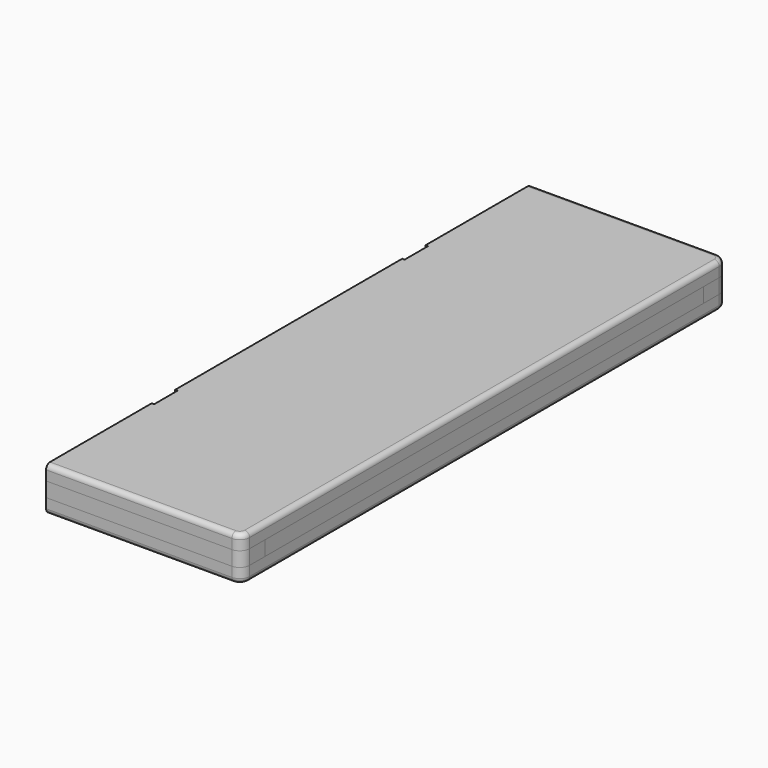
from build123d import *

# Parameters (mm, degrees)
F0_W      = 38.1
F0_H      = 19.05
F1_DEPTH  = 254
F2_W      = 38.1
F2_H      = 19.05
F3_DEPTH  = 355.6
F4_DEPTH  = 215.9
F5_R      = 12.7
F5_2_R    = 12.7
F6_W      = 38.1
F6_H      = 711.2
F7_DEPTH  = 19.05
F9_R      = 6.35
F8_W      = 3.175
F8_H      = 38.1
F11_DEPTH = 57.1510001


with BuildPart() as f1:
    # F0 (on Right) → F1 (new body)
    with BuildSketch(Plane.YZ):
        with Locations((-374.65, 0)):
            Rectangle(F0_W, F0_H)
    extrude(amount=F1_DEPTH)

    # F5
    f5_edges = [f1.edges().sort_by_distance(p)[0] for p in [
        (254, -393.7, 0),
    ]]
    fillet(f5_edges, radius=F5_R)


with BuildPart() as f1b:
    # F0 (on Right) → F1, piece 2 (new body)
    with BuildSketch(Plane.YZ):
        with Locations((374.65, 0)):
            Rectangle(F0_W, F0_H)
    extrude(amount=F1_DEPTH)

    # F5#2
    f5_2_edges = [f1b.edges().sort_by_distance(p)[0] for p in [
        (254, 393.7, 0),
    ]]
    fillet(f5_2_edges, radius=F5_2_R)


with BuildPart() as f3:
    # F2 (on Front) → F3 (new body, symmetric)
    with BuildSketch(Plane.XZ):
        with Locations((234.95, 0)):
            Rectangle(F2_W, F2_H)
    extrude(amount=F3_DEPTH, both=True)


with BuildPart() as f4:
    # F0 (on Right) → F4 (new body, through all)
    with BuildSketch(Plane.YZ):
        Rectangle(F0_W, F0_H)
    extrude(amount=F4_DEPTH)


with BuildPart() as f7:
    # F6 (on face) → F7 (new body)
    with BuildSketch(Plane.XY.offset(9.525)):
        with Locations((234.95, 0)):
            Rectangle(F6_W, F6_H)
        with BuildLine():
            Line((0, 393.7), (0, 355.6))
            Line((0, 355.6), (215.9, 355.6))
            Line((215.9, 355.6), (254, 355.6))
            Line((254, 355.6), (254, 381))
            ThreePointArc((254, 381), (250.2802561211, 389.9802561211), (241.3, 393.7))
            Line((241.3, 393.7), (0, 393.7))
        make_face()
        with BuildLine():
            Line((0, -393.7), (241.3, -393.7))
            ThreePointArc((241.3, -393.7), (250.2802561211, -389.9802561211), (254, -381))
            Line((254, -381), (254, -355.6))
            Line((254, -355.6), (215.9, -355.6))
            Line((215.9, -355.6), (215.9, 355.6))
            Line((215.9, 355.6), (0, 355.6))
            Line((0, 355.6), (0, -393.7))
        make_face()
    extrude(amount=F7_DEPTH)

    # F9
    f9_edges = [f7.edges().sort_by_distance(p)[0] for p in [
        (120.65, -393.7, 28.575),
    ]]
    fillet(f9_edges, radius=F9_R)


with BuildPart() as f10_1:
    # F10: instance of F7
    add(f7.part.mirror(Plane.XY))


with BuildPart() as f11_tool:
    # F8 (on face) → F11 (new body, through all)
    with BuildSketch(Plane.XY.offset(28.575)):
        with Locations((1.5875, -203.2)):
            Rectangle(F8_W, F8_H)
        with Locations((1.5875, 203.2)):
            Rectangle(F8_W, F8_H)
    extrude(amount=-F11_DEPTH)


with BuildPart() as f7_1:
    add(f7.part)

    # F11: cut by f11_tool
    add(f11_tool.part, mode=Mode.SUBTRACT)


with BuildPart() as f10_1_1:
    add(f10_1.part)

    # F11: cut by f11_tool
    add(f11_tool.part, mode=Mode.SUBTRACT)


with BuildPart() as f13_1:
    # F13: instance of F7
    add(f7_1.part.mirror(Plane.XY))


solid = Compound([f1.part, f1b.part, f3.part, f4.part, f7_1.part, f13_1.part])
